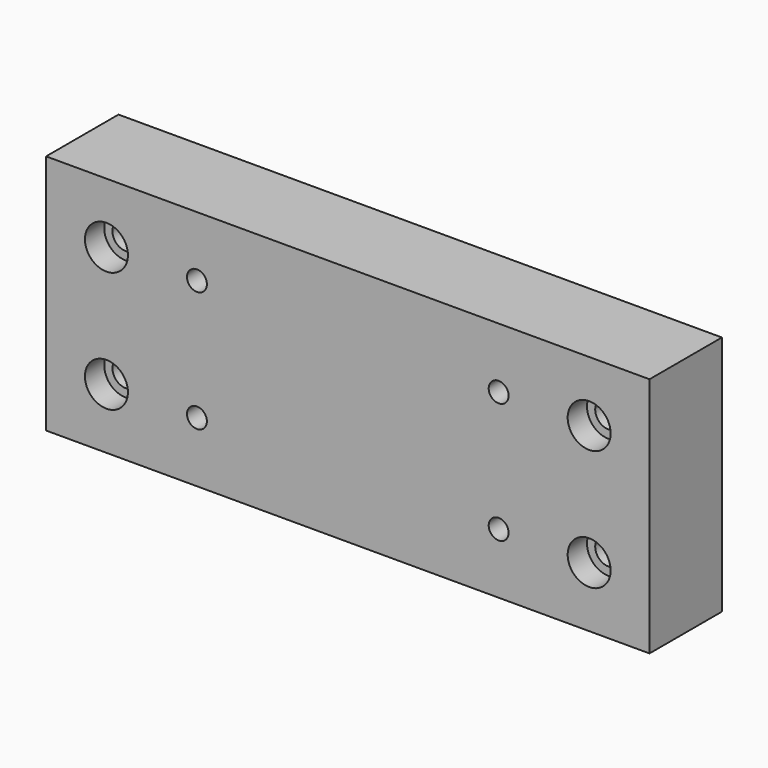
from build123d import *

# Parameters (mm, degrees)
F0_W           = 200
F0_H           = 80
F1_DEPTH       = 30
F2_R           = 4
F3_DEPTH       = 10
F5_D           = 8.8
F5_CBORE_D     = 14.25
F5_CBORE_DEPTH = 8
F7_D           = 6.6
F7_DEPTH       = 12
F7_TIP         = 1.9828400428


with BuildPart() as f1:
    # F0 (on Front) → F1 (new body)
    with BuildSketch(Plane.XZ):
        Rectangle(F0_W, F0_H)
    extrude(amount=F1_DEPTH)

    # F2 (on face) → F3 (cut)
    with BuildSketch(Plane(origin=(0, 0, 0), x_dir=(-1, 0, 0), z_dir=(0, 1, 0))):
        with Locations((-75, 0)):
            Circle(F2_R)
        with Locations((75, 0)):
            Circle(F2_R)
    extrude(amount=-F3_DEPTH, mode=Mode.SUBTRACT)

    # F5 (through all)
    with Locations(Plane.XZ.offset(30)):
        with Locations((-80, 20), (-80, -20), (80, 20), (80, -20)):
            CounterBoreHole(F5_D / 2, F5_CBORE_D / 2, F5_CBORE_DEPTH)

    # F7
    with Locations(Plane.XZ.offset(30)):
        with Locations((-50, -20), (-50, 20), (50, 20), (50, -20)):
            Hole(F7_D / 2, depth=F7_DEPTH)
            with Locations((0, 0, -(F7_DEPTH + F7_TIP / 2))):  # 118° drill point
                Cone(0, F7_D / 2, F7_TIP, mode=Mode.SUBTRACT)


solid = f1.part
